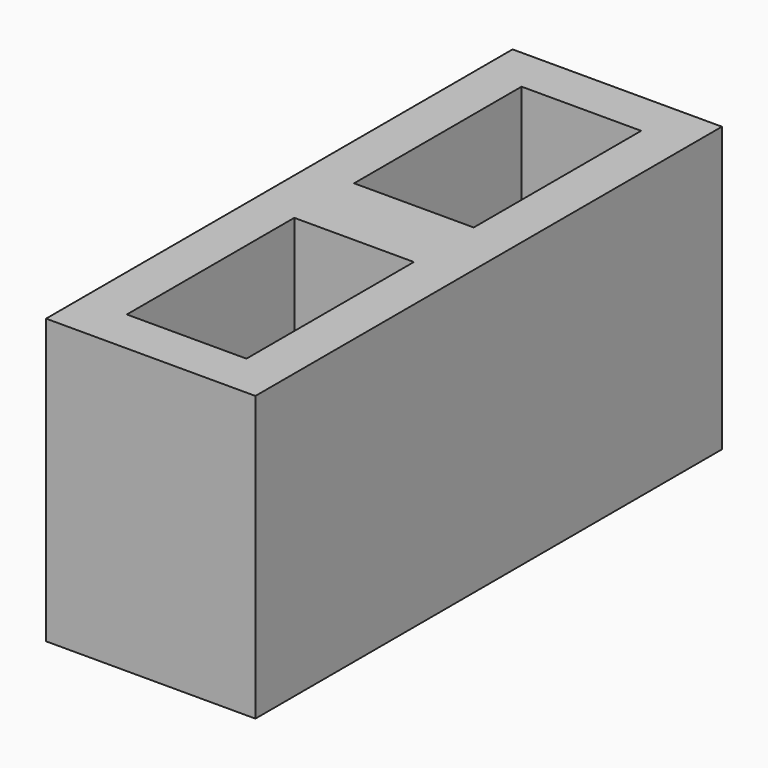
from build123d import *

# Parameters (mm, degrees)
BOX056_W               = 140
BOX056_H               = 80
BOX056_DEPTH           = 190
BOX057_W               = 140
BOX057_H               = 80
BOX057_DEPTH           = 190
BOX058_W               = 390
BOX058_H               = 140
BOX058_DEPTH           = 190
CUT009_PLACEMENT_ANGLE = 90


with BuildPart() as cube028:
    # Box056 → Box056 (new body)
    with BuildSketch(Plane(origin=(220, 30, 0), x_dir=(1, 0, 0), z_dir=(0, 0, 1))):
        with Locations((70, 40)):
            Rectangle(BOX056_W, BOX056_H)
    extrude(amount=BOX056_DEPTH)


with BuildPart() as fusion012:
    # Box057 → Box057 (new body)
    with BuildSketch(Plane(origin=(30, 30, 0), x_dir=(1, 0, 0), z_dir=(0, 0, 1))):
        with Locations((70, 40)):
            Rectangle(BOX057_W, BOX057_H)
    extrude(amount=BOX057_DEPTH)

    # Fusion012: union Cube028
    add(cube028.part)


with BuildPart() as cut009:
    # Box058 → Box058 (new body)
    with BuildSketch(Plane.XY):
        with Locations((195, 70)):
            Rectangle(BOX058_W, BOX058_H)
    extrude(amount=BOX058_DEPTH)

    # Cut009: cut Fusion012
    add(fusion012.part, mode=Mode.SUBTRACT)


with BuildPart() as cut009_1:
    # Cut009 placement: moved
    add(cut009.part.moved(Location((180, -5, -190))).rotate(Axis((180, -5, -190), (0, 0, 1)), CUT009_PLACEMENT_ANGLE))


solid = cut009_1.part
